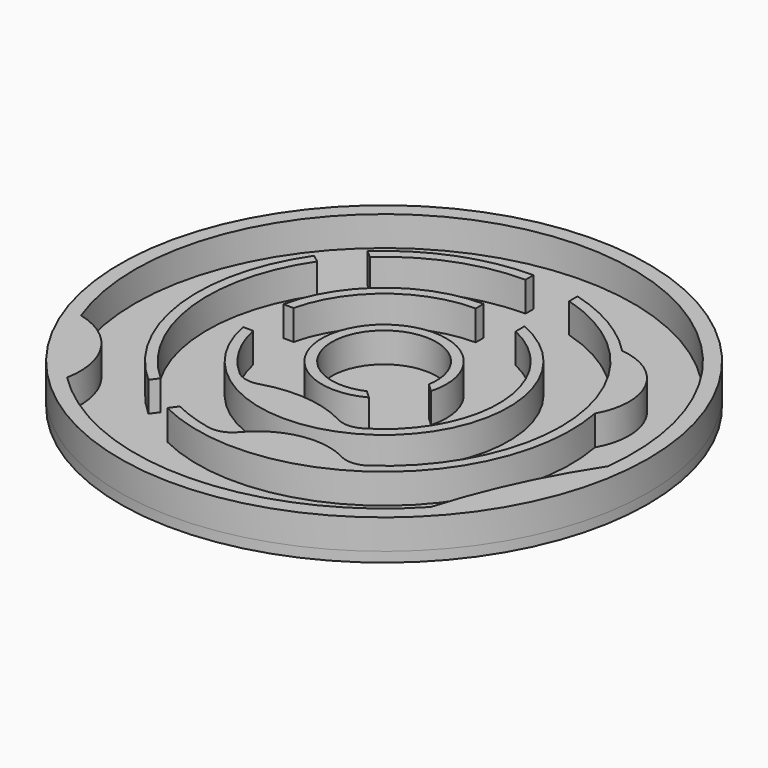
from build123d import *

# Parameters (mm, degrees)
F0_R     = 53
F1_DEPTH = 6
F2_R     = 53
F3_DEPTH = 2


with BuildPart() as f1:
    # F0 (on Top) → F1 (new body)
    with BuildSketch(Plane.XY):
        Circle(F0_R)
        with BuildLine():
            ThreePointArc((-46.821127, -17.543719), (-5.977179, 49.641448), (49.647316, -5.928241))
            ThreePointArc((49.647316, -5.928241), (42.094507, -19.508101), (36.615199, -34.048895))
            ThreePointArc((36.615199, -34.048895), (0.882124, -49.992218), (-35.391179, -35.319463))
            ThreePointArc((-35.391179, -35.319463), (-37.537491, -24.136913), (-46.821127, -17.543719))
        make_face(mode=Mode.SUBTRACT)
        with BuildLine():
            ThreePointArc((-30.969237, 21.146071), (-37.221224, -4.564046), (-24.942732, -28.001967))
            Line((-24.942732, -28.001967), (-23.75244, -26.383169))
            ThreePointArc((-23.75244, -26.383169), (-35.24094, -4.280904), (-29.378237, 19.929104))
            Line((-29.378237, 19.929104), (-30.969237, 21.146071))
        make_face()
        with BuildLine():
            Line((0, 35.5), (0, 37.5))
            ThreePointArc((0, 37.5), (-13.644841, 34.929476), (-25.419048, 27.57031))
            Line((-25.419048, 27.57031), (-23.854843, 26.290616))
            ThreePointArc((-23.854843, 26.290616), (-12.785405, 33.117721), (0, 35.5))
        make_face()
        with BuildLine():
            ThreePointArc((26.928555, 26.097948), (19.090588, 32.276918), (9.900316, 36.169514))
            Line((9.900316, 36.169514), (9.900316, 34.091549))
            ThreePointArc((9.900316, 34.091549), (35.033879, 5.733876), (20.251932, -29.156633))
            ThreePointArc((20.251932, -29.156633), (19.662546, -29.508634), (19.030499, -29.776586))
            ThreePointArc((19.030499, -29.776586), (17.009613, -30.034837), (15.053466, -29.465482))
            ThreePointArc((15.053466, -29.465482), (5.537042, -28.058508), (-2.731486, -32.975149))
            ThreePointArc((-2.731486, -32.975149), (-4.957264, -34.511656), (-7.657569, -34.66427))
            ThreePointArc((-7.657569, -34.66427), (-11.633733, -33.539622), (-15.452274, -31.960557))
            Line((-15.452274, -31.960557), (-16.656219, -33.597922))
            ThreePointArc((-16.656219, -33.597922), (22.60639, -29.919912), (36.870065, 6.84458))
            ThreePointArc((36.870065, 6.84458), (37.138053, 19.176298), (26.928555, 26.097948))
        make_face()
        with BuildLine():
            Line((-22.510137, -4.721624), (-24.550077, -4.721624))
            ThreePointArc((-24.550077, -4.721624), (15.716907, -19.441678), (9.760845, 23.015775))
            Line((9.760845, 23.015775), (9.760845, 20.826087))
            ThreePointArc((9.760845, 20.826087), (22.975293, 1.065796), (11.646972, -19.833004))
            ThreePointArc((11.646972, -19.833004), (9.215326, -20.520475), (6.758061, -19.9311))
            ThreePointArc((6.758061, -19.9311), (-1.683994, -17.37749), (-10.459287, -18.262625))
            ThreePointArc((-10.459287, -18.262625), (-12.983995, -18.369214), (-15.238393, -17.227634))
            ThreePointArc((-15.238393, -17.227634), (-19.883107, -11.56123), (-22.510137, -4.721624))
        make_face()
        with BuildLine():
            Line((10.35768, -1.72292), (12.062009, -3.27993))
            ThreePointArc((12.062009, -3.27993), (-9.743042, 7.830909), (5.797281, -11.074364))
            Line((5.797281, -11.074364), (4.217428, -9.615784))
            ThreePointArc((4.217428, -9.615784), (-8.287507, 6.447265), (10.35768, -1.72292))
        make_face()
        with BuildLine():
            ThreePointArc((0, 25), (-15.701221, 19.454348), (-24.436562, 5.277732))
            Line((-24.436562, 5.277732), (-22.38628, 5.277732))
            ThreePointArc((-22.38628, 5.277732), (-14.276067, 18.033134), (0, 23))
            Line((0, 23), (0, 25))
        make_face()
    extrude(amount=F1_DEPTH)


with BuildPart() as f3:
    # F2 (on Top) → F3 (new body)
    with BuildSketch(Plane.XY):
        Circle(F2_R)
    extrude(amount=-F3_DEPTH)


solid = Compound([f1.part, f3.part])
